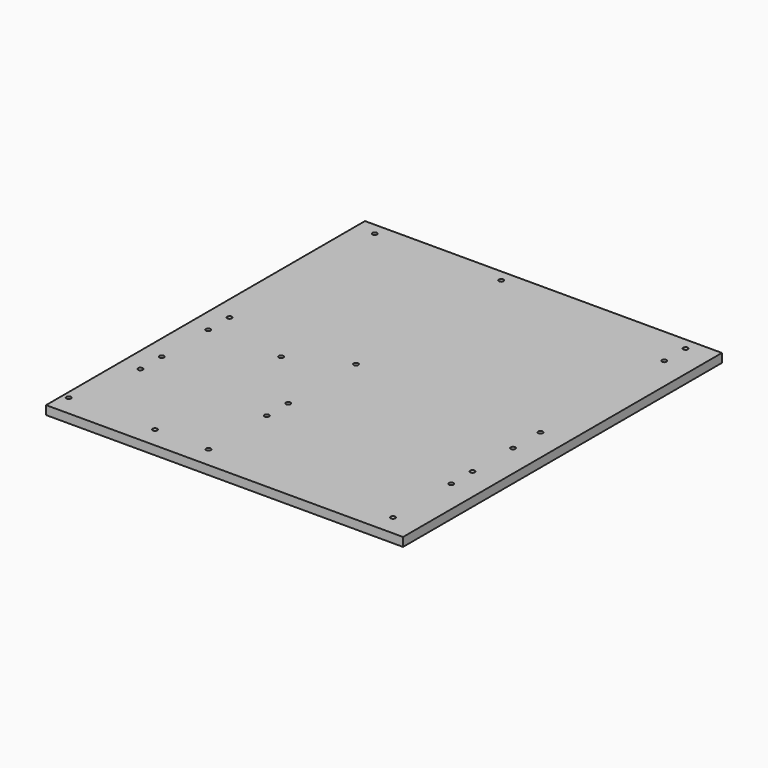
from build123d import *

# Parameters (mm, degrees)
F0_W     = 304.8
F0_H     = 340.36
F0_R     = 1.9812
F1_DEPTH = 3.75


with BuildPart() as f1:
    # F0 (on Top) → F1 (new body, symmetric)
    with BuildSketch(Plane.XY):
        Rectangle(F0_W, F0_H)
        with Locations((-147.32, -152.4)):
            Circle(F0_R, mode=Mode.SUBTRACT)
        with Locations((-135.89, -90.17)):
            Circle(F0_R, mode=Mode.SUBTRACT)
        with Locations((-73.66, -152.4)):
            Circle(F0_R, mode=Mode.SUBTRACT)
        with Locations((-27.94, -152.4)):
            Circle(F0_R, mode=Mode.SUBTRACT)
        with Locations((-27.94, -90.17)):
            Circle(F0_R, mode=Mode.SUBTRACT)
        with Locations((-135.89, -67.31)):
            Circle(F0_R, mode=Mode.SUBTRACT)
        with Locations((-135.89, -17.78)):
            Circle(F0_R, mode=Mode.SUBTRACT)
        with Locations((-27.94, -67.31)):
            Circle(F0_R, mode=Mode.SUBTRACT)
        with Locations((-73.66, -17.78)):
            Circle(F0_R, mode=Mode.SUBTRACT)
        with Locations((129.54, -152.4)):
            Circle(F0_R, mode=Mode.SUBTRACT)
        with Locations((129.54, -90.17)):
            Circle(F0_R, mode=Mode.SUBTRACT)
        with Locations((129.54, -67.31)):
            Circle(F0_R, mode=Mode.SUBTRACT)
        with Locations((129.54, -24.13)):
            Circle(F0_R, mode=Mode.SUBTRACT)
        with Locations((-135.89, 5.08)):
            Circle(F0_R, mode=Mode.SUBTRACT)
        with Locations((-27.94, 5.08)):
            Circle(F0_R, mode=Mode.SUBTRACT)
        with Locations((-135.89, 160.02)):
            Circle(F0_R, mode=Mode.SUBTRACT)
        with Locations((-27.94, 160.02)):
            Circle(F0_R, mode=Mode.SUBTRACT)
        with Locations((129.54, 5.08)):
            Circle(F0_R, mode=Mode.SUBTRACT)
        with Locations((129.54, 137.16)):
            Circle(F0_R, mode=Mode.SUBTRACT)
        with Locations((129.54, 160.02)):
            Circle(F0_R, mode=Mode.SUBTRACT)
    extrude(amount=F1_DEPTH, both=True)


solid = f1.part
